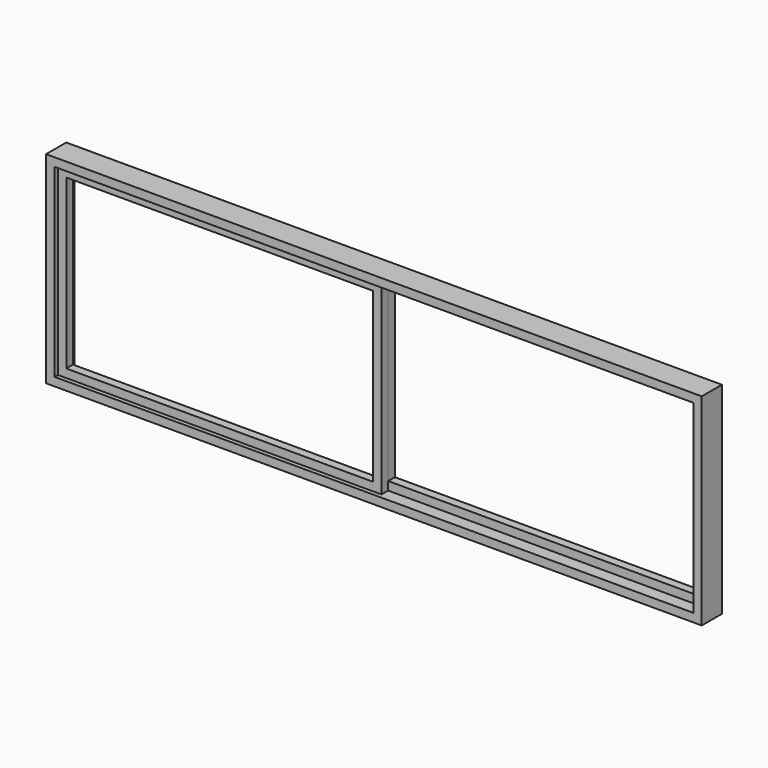
from build123d import *

# Parameters (mm, degrees)
F0_W      = 2971.8
F0_H      = 914.4
F1_DEPTH  = 57.15
F2_W      = 2895.6
F2_H      = 838.2
F3_DEPTH  = 114.301
F4_W      = 1466.85
F4_H      = 838.2
F5_DEPTH  = 38.1
F6_W      = 1390.65
F6_H      = 762
F7_DEPTH  = 95.251
F8_W      = 1466.85
F8_H      = 838.2
F9_DEPTH  = 38.1
F10_W     = 1390.65
F10_H     = 762
F11_DEPTH = 57.151


with BuildPart() as f1:
    # F0 (on Front) → F1 (new body, symmetric)
    with BuildSketch(Plane.XZ):
        Rectangle(F0_W, F0_H)
    extrude(amount=F1_DEPTH, both=True)

    # F2 (on face) → F3 (cut, through all)
    with BuildSketch(Plane.XZ.offset(57.15)):
        Rectangle(F2_W, F2_H)
    extrude(amount=-F3_DEPTH, mode=Mode.SUBTRACT)


with BuildPart() as f5:
    # F4 (on Front) → F5 (new body)
    with BuildSketch(Plane.XZ):
        with Locations((-714.375, 0)):
            Rectangle(F4_W, F4_H)
    extrude(amount=F5_DEPTH)

    # F6 (on face) → F7 (cut, through all)
    with BuildSketch(Plane.XZ.offset(38.1)):
        with Locations((-714.375, 0)):
            Rectangle(F6_W, F6_H)
    extrude(amount=-F7_DEPTH, mode=Mode.SUBTRACT)


with BuildPart() as f9:
    # F8 (on Front) → F9 (new body)
    with BuildSketch(Plane.XZ):
        with Locations((714.375, 0)):
            Rectangle(F8_W, F8_H)
    extrude(amount=-F9_DEPTH)

    # F10 (on face) → F11 (cut, through all)
    with BuildSketch(Plane.XZ):
        with Locations((714.375, 0)):
            Rectangle(F10_W, F10_H)
    extrude(amount=-F11_DEPTH, mode=Mode.SUBTRACT)


solid = Compound([f1.part, f5.part, f9.part])
